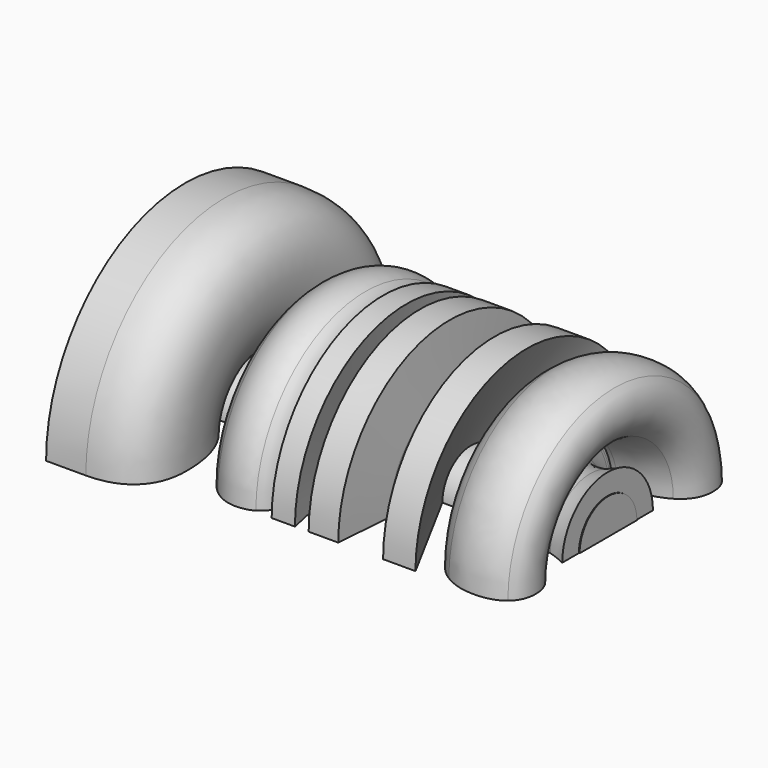
from build123d import *

# Parameters (mm, degrees)
F1_ANGLE = 180


with BuildPart() as f1:
    # F0 (on Top) → F1 (revolve)
    with BuildSketch(Plane.XY):
        with BuildLine():
            Line((0, 3.2328560483), (0, -10.3026703))
            Line((0, -10.3026703), (173.5413521528, -10.3026703))
            Line((173.5413521528, -10.3026703), (173.5413521528, 3.2328560483))
            Line((173.5413521528, 3.2328560483), (173.2995652556, 3.2328560483))
            Line((173.2995652556, 3.2328560483), (173.2995652556, 2.497705901))
            add(Edge.make_bspline(
                [(173.2995652556, 2.497705901), (166.7885552128, -0.7638615134), (158.5315759965, -0.7638615134)],
                knots=[0, 0, 0, 1, 1, 1], degree=2))
            add(Edge.make_bspline(
                [(158.5315759965, -0.7638615134), (150.8392190293, -0.7638615134), (146.4765178526, 3.2328560483)],
                knots=[0, 0, 0, 0.9656505242, 0.9656505242, 0.9656505242], degree=2))
            Line((146.4765178526, 3.2328560483), (121.6973967641, 3.2328560483))
            Line((121.6973967641, 3.2328560483), (119.9505071765, 0))
            Line((119.9505071765, 0), (107.7165981761, 0))
            Line((107.7165981761, 0), (107.3178114111, 3.2328560483))
            Line((107.3178114111, 3.2328560483), (88.9689592657, 3.2328560483))
            Line((88.9689592657, 3.2328560483), (88.280566335, 0))
            Line((88.280566335, 0), (79.5992196112, 0))
            Line((79.5992196112, 0), (79.9132277042, 3.2328560483))
            Line((79.9132277042, 3.2328560483), (77.8699299026, 3.2328560483))
            add(Edge.make_bspline(
                [(77.8699299026, 3.2328560483), (73.5001388924, -0.7638615134), (67.8988011916, -0.7638615134)],
                knots=[0.2007367607, 0.2007367607, 0.2007367607, 1, 1, 1], degree=2))
            add(Edge.make_bspline(
                [(67.8988011916, -0.7638615134), (62.3496764955, -0.7638615134), (59.1529741479, 3.2328560483)],
                knots=[0, 0, 0, 0.9949301068, 0.9949301068, 0.9949301068], degree=2))
            Line((59.1529741479, 3.2328560483), (34.0837253367, 3.2328560483))
            add(Edge.make_bspline(
                [(34.0837253367, 3.2328560483), (27.5887248986, 0), (19.0965378351, 0)],
                knots=[0.1111688733, 0.1111688733, 0.1111688733, 1, 1, 1], degree=2))
            Line((19.0965378351, 0), (2.0127144639, 0))
            Line((2.0127144639, 0), (2.695512907, 3.2328560483))
            Line((2.695512907, 3.2328560483), (0, 3.2328560483))
        make_face()
        with BuildLine():
            Line((13.7131328835, 55.3981469008), (2.695512907, 3.2328560483))
            Line((2.695512907, 3.2328560483), (34.0837253367, 3.2328560483))
            add(Edge.make_bspline(
                [(35.6771825904, 4.0921152504), (34.8960752412, 3.6371994085), (34.0837253367, 3.2328560483)],
                knots=[0, 0, 0, 0.1111688733, 0.1111688733, 0.1111688733], degree=2))
            add(Edge.make_bspline(
                [(46.4136805288, 16.0107798167), (42.7034960351, 8.1842305008), (35.6771825904, 4.0921152504)],
                knots=[0, 0, 0, 1, 1, 1], degree=2))
            add(Edge.make_bspline(
                [(50.1238650225, 34.4465168188), (50.1238650225, 23.8373291326), (46.4136805288, 16.0107798167)],
                knots=[0, 0, 0, 1, 1, 1], degree=2))
            add(Edge.make_bspline(
                [(44.5404011031, 49.9783675914), (50.1238650225, 44.558588282), (50.1238650225, 34.4465168188)],
                knots=[0, 0, 0, 1, 1, 1], degree=2))
            add(Edge.make_bspline(
                [(28.7236178612, 55.3981469008), (38.9569371837, 55.3981469008), (44.5404011031, 49.9783675914)],
                knots=[0, 0, 0, 1, 1, 1], degree=2))
            Line((28.7236178612, 55.3981469008), (13.7131328835, 55.3981469008))
        make_face()
        with BuildLine():
            add(Edge.make_bspline(
                [(19.6300284159, 9.6998287417), (25.2316795142, 9.6998287417), (29.4026058732, 12.5794653993)],
                knots=[0, 0, 0, 1, 1, 1], degree=2))
            Line((19.6300284159, 9.6998287417), (15.6167242741, 9.6998287417))
            Line((15.6167242741, 9.6998287417), (23.2674641941, 45.7710668747))
            Line((23.2674641941, 45.7710668747), (27.6202623419, 45.7710668747))
            add(Edge.make_bspline(
                [(35.5195603734, 42.721683214), (32.7732963609, 45.7710668747), (27.6202623419, 45.7710668747)],
                knots=[0, 0, 0, 1, 1, 1], degree=2))
            add(Edge.make_bspline(
                [(38.2658243858, 33.8402775225), (38.2658243858, 39.6722995534), (35.5195603734, 42.721683214)],
                knots=[0, 0, 0, 1, 1, 1], degree=2))
            add(Edge.make_bspline(
                [(35.919678309, 21.0486283694), (38.2658243858, 26.6381546818), (38.2658243858, 33.8402775225)],
                knots=[0, 0, 0, 1, 1, 1], degree=2))
            add(Edge.make_bspline(
                [(29.4026058732, 12.5794653993), (33.5735322321, 15.459102057), (35.919678309, 21.0486283694)],
                knots=[0, 0, 0, 1, 1, 1], degree=2))
        make_face(mode=Mode.SUBTRACT)
        with BuildLine():
            Line((34.0837253367, 3.2328560483), (2.695512907, 3.2328560483))
            Line((2.695512907, 3.2328560483), (2.0127144639, 0))
            Line((2.0127144639, 0), (19.0965378351, 0))
            add(Edge.make_bspline(
                [(34.0837253367, 3.2328560483), (27.5887248986, 0), (19.0965378351, 0)],
                knots=[0.1111688733, 0.1111688733, 0.1111688733, 1, 1, 1], degree=2))
        make_face()
        with BuildLine():
            Line((173.2995652556, 2.497705901), (173.2995652556, 3.2328560483))
            Line((173.2995652556, 3.2328560483), (146.4765178526, 3.2328560483))
            add(Edge.make_bspline(
                [(158.5315759965, -0.7638615134), (150.8392190293, -0.7638615134), (146.4765178526, 3.2328560483)],
                knots=[0, 0, 0, 0.9656505242, 0.9656505242, 0.9656505242], degree=2))
            add(Edge.make_bspline(
                [(173.2995652556, 2.497705901), (166.7885552128, -0.7638615134), (158.5315759965, -0.7638615134)],
                knots=[0, 0, 0, 1, 1, 1], degree=2))
        make_face()
        with BuildLine():
            Line((146.4765178526, 3.2328560483), (173.2995652556, 3.2328560483))
            Line((173.2995652556, 3.2328560483), (173.2995652556, 11.1063039092))
            add(Edge.make_bspline(
                [(166.7885552128, 8.5661612575), (169.4802576886, 9.2875860201), (173.2995652556, 11.1063039092)],
                knots=[0, 0, 0, 1, 1, 1], degree=2))
            add(Edge.make_bspline(
                [(160.7989109648, 7.8447364948), (164.096852737, 7.8447364948), (166.7885552128, 8.5661612575)],
                knots=[0, 0, 0, 1, 1, 1], degree=2))
            add(Edge.make_bspline(
                [(155.2093846525, 9.8332013869), (157.1614751867, 7.8447364948), (160.7989109648, 7.8447364948)],
                knots=[0, 0, 0, 1, 1, 1], degree=2))
            add(Edge.make_bspline(
                [(153.2572941182, 15.2651054822), (153.2572941182, 11.8216662789), (155.2093846525, 9.8332013869)],
                knots=[0, 0, 0, 1, 1, 1], degree=2))
            Line((153.2572941182, 15.2651054822), (153.2572941182, 16.0289669956))
            Line((153.2572941182, 16.0289669956), (153.3300428338, 16.8292028668))
            Line((153.3300428338, 16.8292028668), (155.2700085821, 16.8292028668))
            add(Edge.make_bspline(
                [(173.3420020064, 20.6727600057), (167.0189261454, 16.8292028668), (155.2700085821, 16.8292028668)],
                knots=[0, 0, 0, 1, 1, 1], degree=2))
            add(Edge.make_bspline(
                [(179.6650778674, 31.597192126), (179.6650778674, 24.5163171445), (173.3420020064, 20.6727600057)],
                knots=[0, 0, 0, 1, 1, 1], degree=2))
            add(Edge.make_bspline(
                [(175.9185190159, 40.066355096), (179.6650778674, 36.9805970776), (179.6650778674, 31.597192126)],
                knots=[0, 0, 0, 1, 1, 1], degree=2))
            add(Edge.make_bspline(
                [(165.4548287608, 43.1521131145), (172.1719601644, 43.1521131145), (175.9185190159, 40.066355096)],
                knots=[0, 0, 0, 1, 1, 1], degree=2))
            add(Edge.make_bspline(
                [(153.3724795845, 39.7632354478), (158.7134477854, 43.1521131145), (165.4548287608, 43.1521131145)],
                knots=[0, 0, 0, 1, 1, 1], degree=2))
            add(Edge.make_bspline(
                [(144.9033166144, 29.9118468821), (148.0315113836, 36.3743577812), (153.3724795845, 39.7632354478)],
                knots=[0, 0, 0, 1, 1, 1], degree=2))
            add(Edge.make_bspline(
                [(141.7751218453, 15.6167242741), (141.7751218453, 23.449335983), (144.9033166144, 29.9118468821)],
                knots=[0, 0, 0, 1, 1, 1], degree=2))
            add(Edge.make_bspline(
                [(146.1703567438, 3.5222503118), (141.7751218453, 7.808362137), (141.7751218453, 15.6167242741)],
                knots=[0, 0, 0, 1, 1, 1], degree=2))
            add(Edge.make_bspline(
                [(146.4765178526, 3.2328560483), (146.3213307587, 3.3750246173), (146.1703567438, 3.5222503118)],
                knots=[0.9656505242, 0.9656505242, 0.9656505242, 1, 1, 1], degree=2))
        make_face()
        with BuildLine():
            add(Edge.make_bspline(
                [(164.7394663911, 34.9315082559), (161.4051502612, 34.9315082559), (158.4527648879, 31.9003117741)],
                knots=[0, 0, 0, 1, 1, 1], degree=2))
            add(Edge.make_bspline(
                [(168.7163961752, 31.3304468356), (168.7163961752, 34.9315082559), (164.7394663911, 34.9315082559)],
                knots=[0, 0, 0, 1, 1, 1], degree=2))
            add(Edge.make_bspline(
                [(165.4427039749, 26.3532222125), (168.7163961752, 28.1901272804), (168.7163961752, 31.3304468356)],
                knots=[0, 0, 0, 1, 1, 1], degree=2))
            add(Edge.make_bspline(
                [(156.2884906, 24.5163171445), (162.1690117746, 24.5163171445), (165.4427039749, 26.3532222125)],
                knots=[0, 0, 0, 1, 1, 1], degree=2))
            Line((156.2884906, 24.5163171445), (154.5910205702, 24.5163171445))
            add(Edge.make_bspline(
                [(158.4527648879, 31.9003117741), (155.5003795147, 28.8691152924), (154.5910205702, 24.5163171445)],
                knots=[0, 0, 0, 1, 1, 1], degree=2))
        make_face(mode=Mode.SUBTRACT)
        with BuildLine():
            add(Edge.make_bspline(
                [(59.1529741479, 3.2328560483), (59.1366846222, 3.253222234), (59.1204561804, 3.2736922003)],
                knots=[0.9949301068, 0.9949301068, 0.9949301068, 1, 1, 1], degree=2))
            Line((59.1529741479, 3.2328560483), (77.8699299026, 3.2328560483))
            add(Edge.make_bspline(
                [(79.9872127609, 5.492528025), (78.9674127457, 4.2366406554), (77.8699299026, 3.2328560483)],
                knots=[0, 0, 0, 0.2007367607, 0.2007367607, 0.2007367607], degree=2))
            Line((79.9872127609, 5.492528025), (80.132710192, 5.492528025))
            Line((80.132710192, 5.492528025), (79.9132277042, 3.2328560483))
            Line((79.9132277042, 3.2328560483), (88.9689592657, 3.2328560483))
            Line((88.9689592657, 3.2328560483), (97.3014070648, 42.3640020292))
            Line((97.3014070648, 42.3640020292), (88.5109372676, 42.3640020292))
            Line((88.5109372676, 42.3640020292), (86.3527253726, 36.9442227198))
            Line((86.3527253726, 36.9442227198), (86.0496057244, 36.9442227198))
            add(Edge.make_bspline(
                [(81.8968665444, 41.563766158), (84.5703818413, 39.9754192016), (86.0496057244, 36.9442227198)],
                knots=[0, 0, 0, 1, 1, 1], degree=2))
            add(Edge.make_bspline(
                [(75.5495411116, 43.1521131145), (79.2233512475, 43.1521131145), (81.8968665444, 41.563766158)],
                knots=[0, 0, 0, 1, 1, 1], degree=2))
            add(Edge.make_bspline(
                [(65.8133380121, 39.4237414419), (70.2510096615, 43.1521131145), (75.5495411116, 43.1521131145)],
                knots=[0, 0, 0, 1, 1, 1], degree=2))
            add(Edge.make_bspline(
                [(58.6475895293, 28.8933648642), (61.3756663628, 35.6953697693), (65.8133380121, 39.4237414419)],
                knots=[0, 0, 0, 1, 1, 1], degree=2))
            add(Edge.make_bspline(
                [(55.9195126957, 14.5861174703), (55.9195126957, 22.0913599591), (58.6475895293, 28.8933648642)],
                knots=[0, 0, 0, 1, 1, 1], degree=2))
            add(Edge.make_bspline(
                [(59.1204561804, 3.2736922003), (55.9195126957, 7.311245914), (55.9195126957, 14.5861174703)],
                knots=[0, 0, 0, 1, 1, 1], degree=2))
        make_face()
        with BuildLine():
            add(Edge.make_bspline(
                [(72.3728471987, 8.4509757912), (74.979676173, 8.4509757912), (77.4046333584, 10.9911184429)],
                knots=[0, 0, 0, 1, 1, 1], degree=2))
            add(Edge.make_bspline(
                [(68.7475362065, 10.1181338561), (70.0206387288, 8.4509757912), (72.3728471987, 8.4509757912)],
                knots=[0, 0, 0, 1, 1, 1], degree=2))
            add(Edge.make_bspline(
                [(67.4744336842, 15.1196080511), (67.4744336842, 11.7852919211), (68.7475362065, 10.1181338561)],
                knots=[0, 0, 0, 1, 1, 1], degree=2))
            add(Edge.make_bspline(
                [(68.8627216728, 23.9828265637), (67.4744336842, 19.5087805567), (67.4744336842, 15.1196080511)],
                knots=[0, 0, 0, 1, 1, 1], degree=2))
            add(Edge.make_bspline(
                [(72.5789685595, 31.1849494044), (70.2510096615, 28.4568725708), (68.8627216728, 23.9828265637)],
                knots=[0, 0, 0, 1, 1, 1], degree=2))
            add(Edge.make_bspline(
                [(77.477382074, 33.913026238), (74.9069274575, 33.913026238), (72.5789685595, 31.1849494044)],
                knots=[0, 0, 0, 1, 1, 1], degree=2))
            add(Edge.make_bspline(
                [(81.3270016058, 32.1488698856), (79.8659649016, 33.913026238), (77.477382074, 33.913026238)],
                knots=[0, 0, 0, 1, 1, 1], degree=2))
            add(Edge.make_bspline(
                [(82.7880383101, 27.6930110574), (82.7880383101, 30.3847135332), (81.3270016058, 32.1488698856)],
                knots=[0, 0, 0, 1, 1, 1], degree=2))
            add(Edge.make_bspline(
                [(81.3088144269, 17.8658720635), (82.7880383101, 22.2004830325), (82.7880383101, 27.6930110574)],
                knots=[0, 0, 0, 1, 1, 1], degree=2))
            add(Edge.make_bspline(
                [(77.4046333584, 10.9911184429), (79.8295905438, 13.5312610946), (81.3088144269, 17.8658720635)],
                knots=[0, 0, 0, 1, 1, 1], degree=2))
        make_face(mode=Mode.SUBTRACT)
        with BuildLine():
            Line((77.8699299026, 3.2328560483), (59.1529741479, 3.2328560483))
            add(Edge.make_bspline(
                [(67.8988011916, -0.7638615134), (62.3496764955, -0.7638615134), (59.1529741479, 3.2328560483)],
                knots=[0, 0, 0, 0.9949301068, 0.9949301068, 0.9949301068], degree=2))
            add(Edge.make_bspline(
                [(77.8699299026, 3.2328560483), (73.5001388924, -0.7638615134), (67.8988011916, -0.7638615134)],
                knots=[0.2007367607, 0.2007367607, 0.2007367607, 1, 1, 1], degree=2))
        make_face()
        Polygon((119.9505071765, 0), (121.6973967641, 3.2328560483), (107.3178114111, 3.2328560483), (107.7165981761, 0), align=None)
        with BuildLine():
            Line((107.3178114111, 3.2328560483), (121.6973967641, 3.2328560483))
            Line((121.6973967641, 3.2328560483), (142.8421030068, 42.3640020292))
            Line((142.8421030068, 42.3640020292), (130.6081940064, 42.3640020292))
            Line((130.6081940064, 42.3640020292), (119.3442678802, 19.8603993485))
            add(Edge.make_bspline(
                [(115.8644543191, 11.4094235574), (117.9499174986, 17.2050712305), (119.3442678802, 19.8603993485)],
                knots=[0, 0, 0, 1, 1, 1], degree=2))
            Line((115.8644543191, 11.4094235574), (115.6340833865, 11.4094235574))
            add(Edge.make_bspline(
                [(115.3673380961, 20.1635189967), (115.6340833865, 15.1196080511), (115.6340833865, 11.4094235574)],
                knots=[0, 0, 0, 1, 1, 1], degree=2))
            Line((115.3673380961, 20.1635189967), (113.6698680663, 42.3640020292))
            Line((113.6698680663, 42.3640020292), (102.4908154415, 42.3640020292))
            Line((102.4908154415, 42.3640020292), (107.3178114111, 3.2328560483))
        make_face()
        Polygon((88.9689592657, 3.2328560483), (79.9132277042, 3.2328560483), (79.5992196112, 0), (88.280566335, 0), align=None)
    revolve(axis=Axis((86.7706760764, -10.3026703, 0), (1, 0, 0)), revolution_arc=F1_ANGLE)


solid = f1.part
